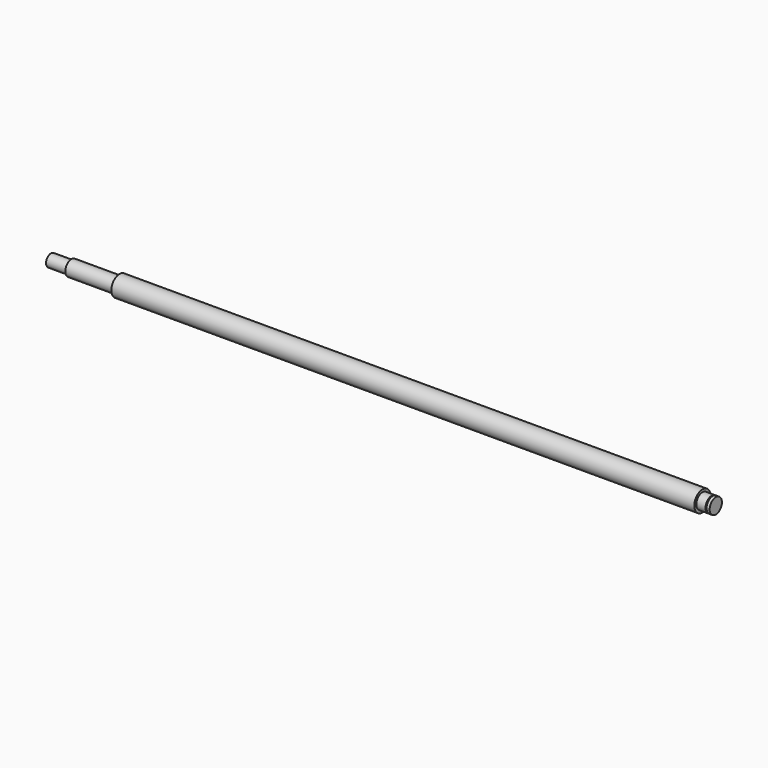
from build123d import *

# Parameters (mm, degrees)
SKETCH_W      = 650
SKETCH_H      = 10
SKETCH001_W   = 67
SKETCH001_H   = 2.5
SKETCH002_W   = 20
SKETCH002_H   = 1.5
SKETCH003_W   = 13
SKETCH003_H   = 2.5
SKETCH003_W_2 = 1
SKETCH003_H_2 = 3.01


with BuildPart() as part:
    # Sketch → Revolution (revolve)
    with BuildSketch(Plane.XZ):
        with Locations((325, 5)):
            Rectangle(SKETCH_W, SKETCH_H)
    revolve(axis=Axis((0, 0, 0), (1, 0, 0)))

    # Sketch001 → Groove (revolve, cut)
    with BuildSketch(Plane.XZ):
        with Locations((33.5, 8.75)):
            Rectangle(SKETCH001_W, SKETCH001_H)
    revolve(axis=Axis((0, 0, 0), (1, 0, 0)), mode=Mode.SUBTRACT)

    # Sketch002 → Groove001 (revolve, cut)
    with BuildSketch(Plane.XZ):
        with Locations((10, 6.75)):
            Rectangle(SKETCH002_W, SKETCH002_H)
    revolve(axis=Axis((0, 0, 0), (1, 0, 0)), mode=Mode.SUBTRACT)

    # Sketch003 → Groove002 (revolve, cut)
    with BuildSketch(Plane.XZ):
        with Locations((643.5, 8.75)):
            Rectangle(SKETCH003_W, SKETCH003_H)
        with Locations((646.5, 5.995)):
            Rectangle(SKETCH003_W_2, SKETCH003_H_2)
    revolve(axis=Axis((0, 0, 0), (1, 0, 0)), mode=Mode.SUBTRACT)


solid = part.part
